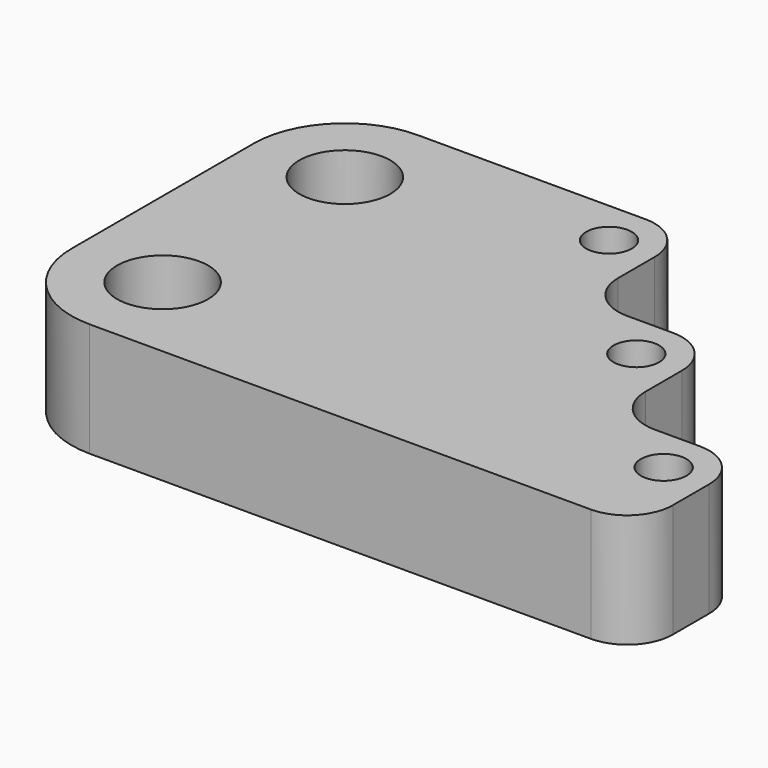
from build123d import *

# Parameters (mm, degrees)
F0_R     = 10
F0_R_2   = 5
F1_DEPTH = 25


with BuildPart() as f1:
    # F0 (on Top) → F1 (new body)
    with BuildSketch(Plane.XY):
        with BuildLine():
            ThreePointArc((-80, 43.427421), (-74.142136, 29.285286), (-60, 23.427421))
            Line((-60, 23.427421), (50, 23.427421))
            ThreePointArc((50, 23.427421), (57.071068, 26.356353), (60, 33.427421))
            Line((60, 33.427421), (60, 43.427421))
            ThreePointArc((60, 43.427421), (57.071068, 50.498489), (50, 53.427421))
            Line((50, 53.427421), (40, 53.427421))
            ThreePointArc((40, 53.427421), (32.928932, 56.356353), (30, 63.427421))
            Line((30, 63.427421), (30, 73.427421))
            ThreePointArc((30, 73.427421), (27.071068, 80.498489), (20, 83.427421))
            Line((20, 83.427421), (10, 83.427421))
            ThreePointArc((10, 83.427421), (2.928932, 86.356353), (0, 93.427421))
            Line((0, 93.427421), (0, 103.427421))
            ThreePointArc((0, 103.427421), (-2.928932, 110.498489), (-10, 113.427421))
            Line((-10, 113.427421), (-60, 113.427421))
            ThreePointArc((-60, 113.427421), (-74.142136, 107.569557), (-80, 93.427421))
            Line((-80, 93.427421), (-80, 43.427421))
        make_face()
        with Locations((-60, 43.427421)):
            Circle(F0_R, mode=Mode.SUBTRACT)
        with Locations((50, 43.427421)):
            Circle(F0_R_2, mode=Mode.SUBTRACT)
        with Locations((-60, 93.427421)):
            Circle(F0_R, mode=Mode.SUBTRACT)
        with Locations((20, 73.427421)):
            Circle(F0_R_2, mode=Mode.SUBTRACT)
        with Locations((-10, 103.427421)):
            Circle(F0_R_2, mode=Mode.SUBTRACT)
    extrude(amount=F1_DEPTH)


solid = f1.part
